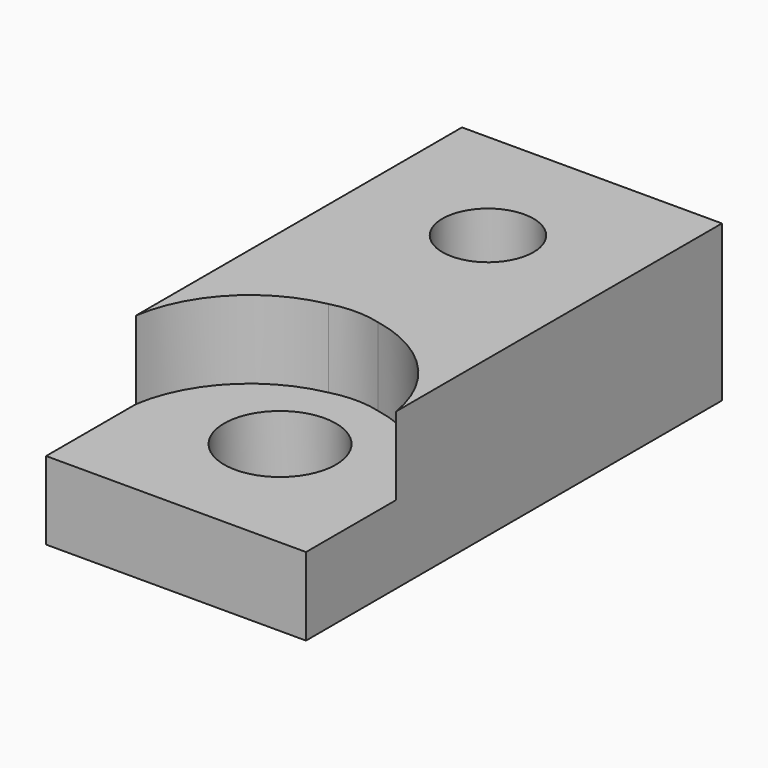
from build123d import *

# Parameters (mm, degrees)
F0_W     = 10
F0_H     = 3
F1_DEPTH = 10
F2_R     = 2.15
F3_DEPTH = 6
F5_DEPTH = 2.5
F6_R     = 3.65
F7_DEPTH = 3
F9_DEPTH = 3


with BuildPart() as f1:
    # F0 (on Right) → F1 (new body)
    with BuildSketch(Plane.YZ):
        Polygon((-10, -3.0702352835), (10, -3.0702352835), (10, 2.9297647165), (-10, 2.9297647165), (-10, 1.4297647165), (0, 1.4297647165), (0, -1.5702352835), (-10, -1.5702352835), align=None)
        with Locations((-5, -0.0702352835)):
            Rectangle(F0_W, F0_H)
    extrude(amount=F1_DEPTH)

    # F2 (on face) → F3 (cut, through all)
    with BuildSketch(Plane.XY.offset(2.9297647165)):
        with Locations((5, -5)):
            Circle(F2_R)
        with BuildLine():
            ThreePointArc((6.75, 5), (6.6167891819, 5.6696960066), (6.2374368671, 6.2374368671))
            Line((6.2374368671, 6.2374368671), (3.7625631329, 3.7625631329))
            ThreePointArc((3.7625631329, 3.7625631329), (5.6696960066, 3.3832108181), (6.75, 5))
        make_face()
        with BuildLine():
            Line((3.7625631329, 3.7625631329), (6.2374368671, 6.2374368671))
            ThreePointArc((6.2374368671, 6.2374368671), (3.7625631329, 6.2374368671), (3.7625631329, 3.7625631329))
        make_face()
    extrude(amount=-F3_DEPTH, mode=Mode.SUBTRACT)

    # F4 (on face) → F5 (cut)
    with BuildSketch(Plane(origin=(0, 0, -3.0702352835), x_dir=(1, 0, 0), z_dir=(0, 0, -1))):
        Polygon((1.7668389044, -5.0016318656), (3.3848326892, -7.8008155761), (6.6179937849, -7.7991837106), (8.2331610956, -4.9983681344), (6.6151673108, -2.1991844239), (3.3820062151, -2.2008162894), align=None)
    extrude(amount=-F5_DEPTH, mode=Mode.SUBTRACT)

    # F6 (on face) → F7 (cut)
    with BuildSketch(Plane.XY.offset(2.9297647165)):
        with Locations((5, -5)):
            Circle(F6_R)
    extrude(amount=-F7_DEPTH, mode=Mode.SUBTRACT)

    # F8 (on face) → F9 (cut)
    with BuildSketch(Plane.XY.offset(2.9297647165)):
        with BuildLine():
            Line((0, -5.6770486943), (0, -10))
            Line((0, -10), (10, -10))
            Line((10, -10), (10, -5.6770486943))
            ThreePointArc((10, -5.6770486943), (5, -1.3859687615), (0, -5.6770486943))
        make_face()
    extrude(amount=-F9_DEPTH, mode=Mode.SUBTRACT)


solid = f1.part
